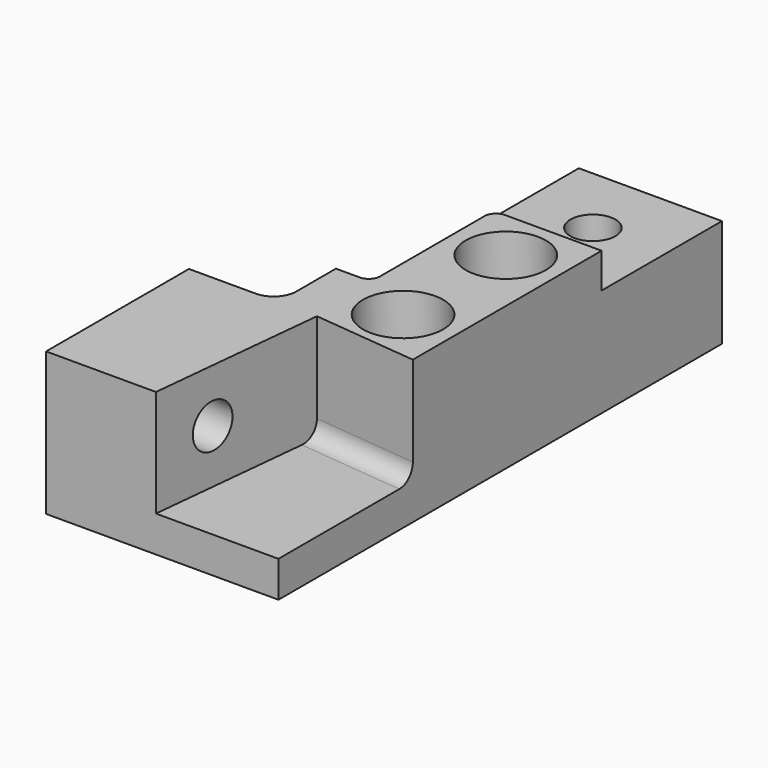
from build123d import *

# Parameters (mm, degrees)
F1_DEPTH  = 25.4
F3_DEPTH  = 6.22
F7_DEPTH  = 25
F8_R      = 3.925
F9_DEPTH  = 15.3
F10_R     = 4
F11_DEPTH = 19.181
F12_R     = 4.75
F13_DEPTH = 25.401
F14_DEPTH = 25.401
F15_R     = 7.125
F16_DEPTH = 9.9
F17_DEPTH = 9.9


with BuildPart() as f1:
    # F0 (on Top) → F1 (new body)
    with BuildSketch(Plane.XY):
        with BuildLine():
            Line((0, -49.2), (0, 49.2))
            Line((0, 49.2), (-25.4, 49.2))
            Line((-25.4, 49.2), (-25.4, -13.5))
            ThreePointArc((-25.4, -13.5), (-26.571573, -16.328427), (-29.4, -17.5))
            Line((-29.4, -17.5), (-41.25, -17.5))
            Line((-41.25, -17.5), (-41.25, -49.2))
            Line((-41.25, -49.2), (0, -49.2))
        make_face()
    extrude(amount=F1_DEPTH)

    # F2 (on face) → F3 (cut)
    with BuildSketch(Plane.XY.offset(25.4)):
        with BuildLine():
            Line((0, 49.2), (-25.4, 49.2))
            Line((-25.4, 49.2), (-25.4, -4.7))
            Line((-25.4, -4.7), (-21.17, -4.7))
            ThreePointArc((-21.17, -4.7), (-19.755786, -4.114214), (-19.17, -2.7))
            Line((-19.17, -2.7), (-19.17, 20.5))
            ThreePointArc((-19.17, 20.5), (-18.584214, 21.914214), (-17.17, 22.5))
            Line((-17.17, 22.5), (0, 22.5))
            Line((0, 22.5), (0, 49.2))
        make_face()
    extrude(amount=-F3_DEPTH, mode=Mode.SUBTRACT)

    # F6 (on face) → F7 (cut)
    with BuildSketch(Plane(origin=(-16.581312, 1.684285, 0), x_dir=(0.101057, 0.994881, 0), z_dir=(0.994881, -0.101057, 0))):
        with BuildLine():
            Line((-19.283002, 9.4), (-19.283002, 30.4))
            Line((-19.283002, 30.4), (-56.146122, 30.4))
            Line((-56.146122, 30.4), (-56.146122, 6.4))
            Line((-56.146122, 6.4), (-22.283002, 6.4))
            ThreePointArc((-22.283002, 6.4), (-20.161682, 7.27868), (-19.283002, 9.4))
        make_face()
    extrude(amount=F7_DEPTH, mode=Mode.SUBTRACT)

    # F8 (on face) → F9 (cut)
    with BuildSketch(Plane(origin=(-16.581312, 1.684285, 0), x_dir=(0.101057, 0.994881, 0), z_dir=(0.994881, -0.101057, 0))):
        with Locations((-39.921122, 15.935)):
            Circle(F8_R)
    extrude(amount=-F9_DEPTH, mode=Mode.SUBTRACT)

    # F10 (on face) → F11 (cut, through all)
    with BuildSketch(Plane.XY.offset(19.18)):
        with Locations((-12.7, 36.45)):
            Circle(F10_R)
    extrude(amount=-F11_DEPTH, mode=Mode.SUBTRACT)

    # F12 (on face) → F13 (cut, through all)
    with BuildSketch(Plane.XY.offset(25.4)):
        with Locations((-9.52, 13.15)):
            Circle(F12_R)
    extrude(amount=-F13_DEPTH, mode=Mode.SUBTRACT)

    # F12 (on face) → F14 (cut, through all)
    with BuildSketch(Plane.XY.offset(25.4)):
        with Locations((-9.52, -9.65)):
            Circle(F12_R)
    extrude(amount=-F14_DEPTH, mode=Mode.SUBTRACT)

    # F15 (on face) → F16 (cut)
    with BuildSketch(Plane.XY.offset(25.4)):
        with Locations((-9.52, 13.15)):
            Circle(F15_R)
    extrude(amount=-F16_DEPTH, mode=Mode.SUBTRACT)

    # F15 (on face) → F17 (cut)
    with BuildSketch(Plane.XY.offset(25.4)):
        with Locations((-9.52, -9.65)):
            Circle(F15_R)
    extrude(amount=-F17_DEPTH, mode=Mode.SUBTRACT)


solid = f1.part
